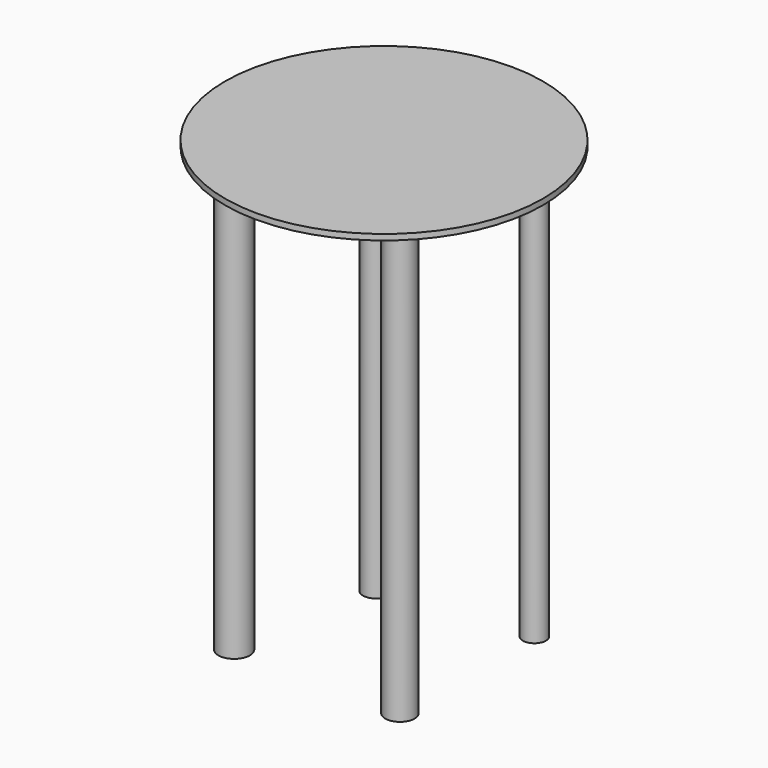
from build123d import *

# Parameters (mm, degrees)
F0_R     = 48.166826
F1_DEPTH = 1.750732
F3_R     = 4.01791
F3_R_2   = 4.772257
F3_R_3   = 4.448486
F3_R_4   = 3.51804
F4_DEPTH = 134.586155


with BuildPart() as f1:
    # F0 (on Top) → F1 (new body)
    with BuildSketch(Plane.XY):
        Circle(F0_R)
    extrude(amount=F1_DEPTH)

    # F3 (on face) → F4 (join)
    with BuildSketch(Plane(origin=(0, 0, 0), x_dir=(1, 0, 0), z_dir=(0, 0, -1))):
        with Locations((-20.741474, -22.985213)):
            Circle(F3_R)
        with Locations((-28.151382, 21.579884)):
            Circle(F3_R_2)
        with Locations((22.852417, 22.529926)):
            Circle(F3_R_3)
        with Locations((23.104079, -28.06554)):
            Circle(F3_R_4)
    extrude(amount=F4_DEPTH)


solid = f1.part
